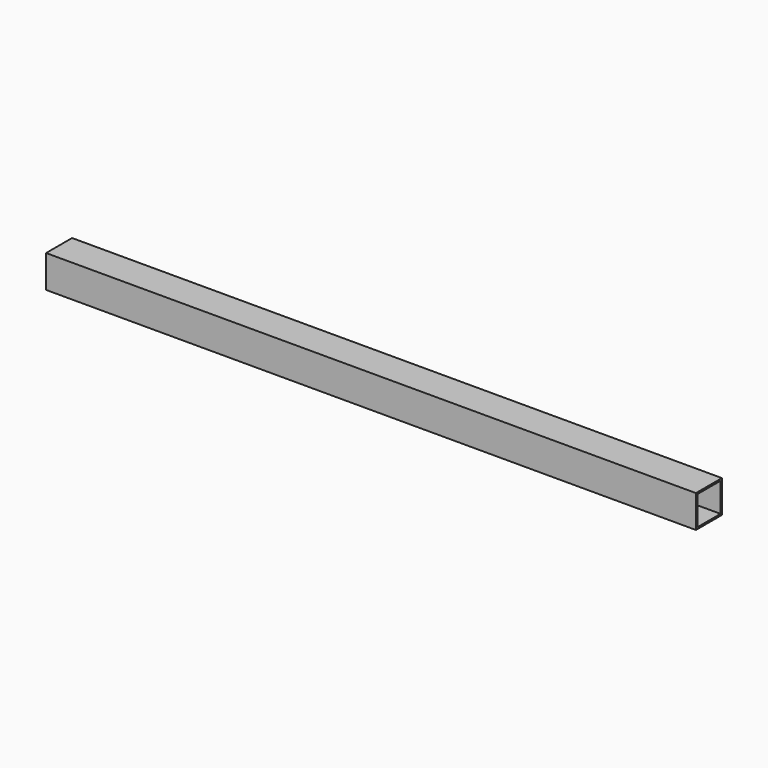
from build123d import *

# Parameters (mm, degrees)
BOX001_W     = 3000
BOX001_H     = 34.1
BOX001_DEPTH = 34.1
BOX_W        = 761.9
BOX_H        = 38.1
BOX_DEPTH    = 38.1


with BuildPart() as obj1:
    # Box001 → Box001 (new body)
    with BuildSketch(Plane(origin=(0, 2, 2), x_dir=(1, 0, 0), z_dir=(0, 0, 1))):
        with Locations((1500, 17.05)):
            Rectangle(BOX001_W, BOX001_H)
    extrude(amount=BOX001_DEPTH)


with BuildPart() as obj2:
    # Box → Box (new body)
    with BuildSketch(Plane.XY):
        with Locations((380.95, 19.05)):
            Rectangle(BOX_W, BOX_H)
    extrude(amount=BOX_DEPTH)

    # Cut: cut obj1
    add(obj1.part, mode=Mode.SUBTRACT)


solid = obj2.part
